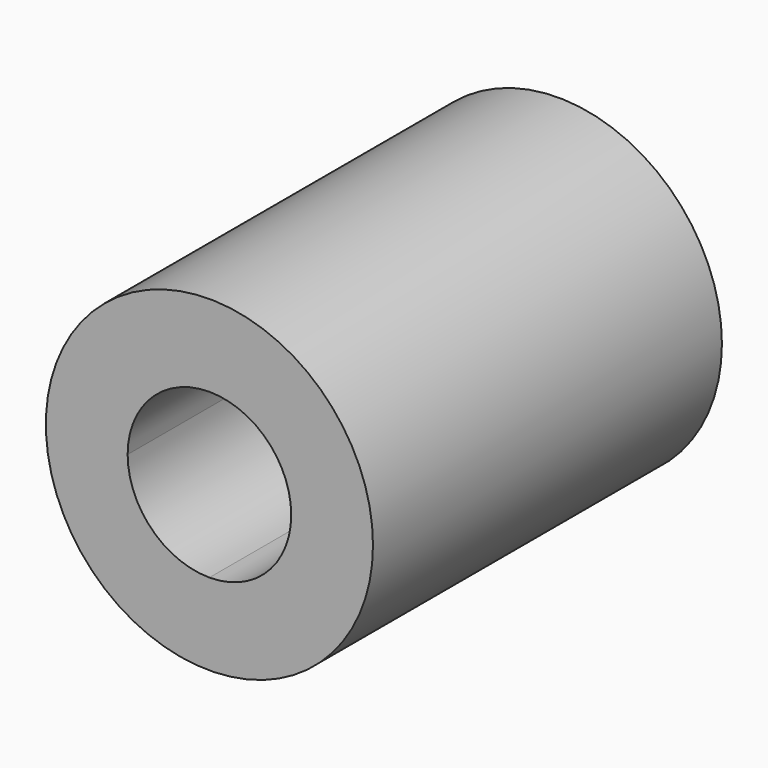
from build123d import *

# Parameters (mm, degrees)
F0_R     = 9.525
F1_DEPTH = 25.4
F3_DEPTH = 25.401
F4_DEPTH = 12.065
F6_DEPTH = 9.525


with BuildPart() as f1:
    # F0 (on Front) → F1 (new body)
    with BuildSketch(Plane.XZ):
        Circle(F0_R)
    extrude(amount=F1_DEPTH)

    # F2 (on Front) → F3 (cut, through all)
    with BuildSketch(Plane.XZ):
        with BuildLine():
            ThreePointArc((-4.7625, 0), (-3.367596, -3.367596), (0, -4.7625))
            ThreePointArc((0, -4.7625), (3.367596, -3.367596), (4.7625, 0))
            ThreePointArc((4.7625, 0), (3.367596, 3.367596), (0, 4.7625))
            ThreePointArc((0, 4.7625), (-3.367596, 3.367596), (-4.7625, 0))
        make_face()
    extrude(amount=F3_DEPTH, mode=Mode.SUBTRACT)

    # F2 (on Front) → F4 (cut)
    with BuildSketch(Plane.XZ):
        with BuildLine():
            Line((0, -4.7625), (4.7625, -4.7625))
            Line((4.7625, -4.7625), (4.7625, 0))
            ThreePointArc((4.7625, 0), (3.367596, -3.367596), (0, -4.7625))
        make_face()
        with BuildLine():
            Line((-4.7625, -4.7625), (0, -4.7625))
            ThreePointArc((0, -4.7625), (-3.367596, -3.367596), (-4.7625, 0))
            Line((-4.7625, 0), (-4.7625, -4.7625))
        make_face()
        with BuildLine():
            ThreePointArc((0, 4.7625), (3.367596, 3.367596), (4.7625, 0))
            Line((4.7625, 0), (4.7625, 4.7625))
            Line((4.7625, 4.7625), (0, 4.7625))
        make_face()
        with BuildLine():
            Line((-4.7625, 4.7625), (-4.7625, 0))
            ThreePointArc((-4.7625, 0), (-3.367596, 3.367596), (0, 4.7625))
            Line((0, 4.7625), (-4.7625, 4.7625))
        make_face()
    extrude(amount=F4_DEPTH, mode=Mode.SUBTRACT)

    # F5 (on face) → F6 (cut)
    with BuildSketch(Plane(origin=(0, 0, 0), x_dir=(-1, 0, 0), z_dir=(0, 1, 0))):
        Polygon((4.794214, -5.66426), (7.3025, 1.319781), (2.508286, 6.984041), (-4.794214, 5.66426), (-7.3025, -1.319781), (-2.508286, -6.984041), align=None)
    extrude(amount=-F6_DEPTH, mode=Mode.SUBTRACT)


solid = f1.part
